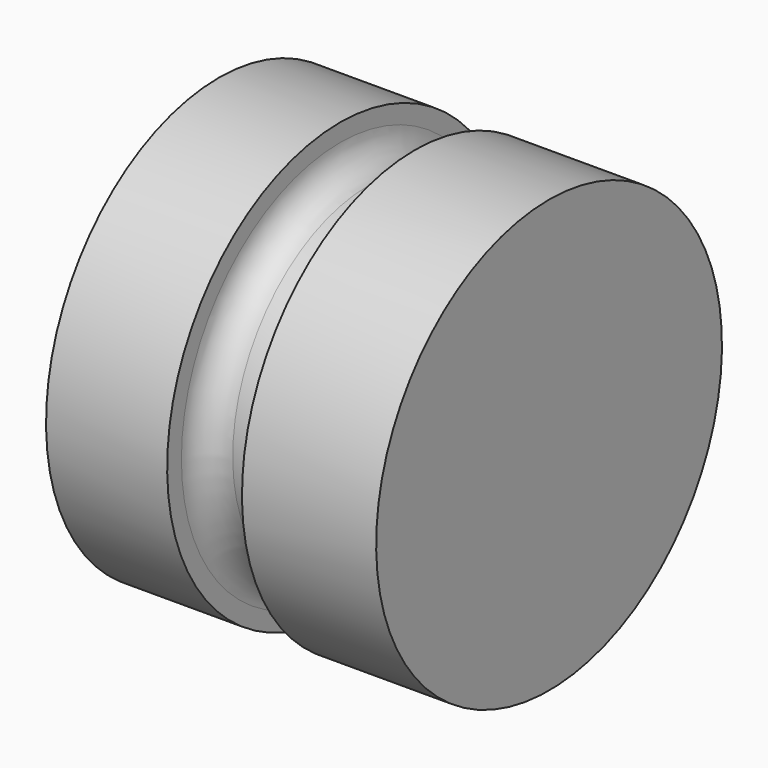
from build123d import *

# Parameters (mm, degrees)
F0_W = 58.8433295488
F0_H = 38.5233350098
F2_W = 13.3350025862
F2_H = 11.2183336169
F4_R = 5.08


with BuildPart() as f1:
    # F0 (on Front) → F1 (revolve)
    with BuildSketch(Plane.XZ):
        with Locations((29.4216647744, 19.2616675049)):
            Rectangle(F0_W, F0_H)
    revolve(axis=Axis((29.4216647744, 0, 0), (1, 0, 0)))

    # F2 (on Front) → F3 (revolve, cut)
    with BuildSketch(Plane.XZ):
        with Locations((28.2575013116, 35.8774987981)):
            Rectangle(F2_W, F2_H)
    revolve(axis=Axis((32.2791673243, 0, 0), (1, 0, 0)), mode=Mode.SUBTRACT)

    # F4
    f4_edges = [f1.edges().sort_by_distance(p)[0] for p in [
        (21.59, 0, -30.268332),
        (34.925003, 0, -30.268332),
        (28.257501, 0, 30.268332),
    ]]
    fillet(f4_edges, radius=F4_R)


solid = f1.part
